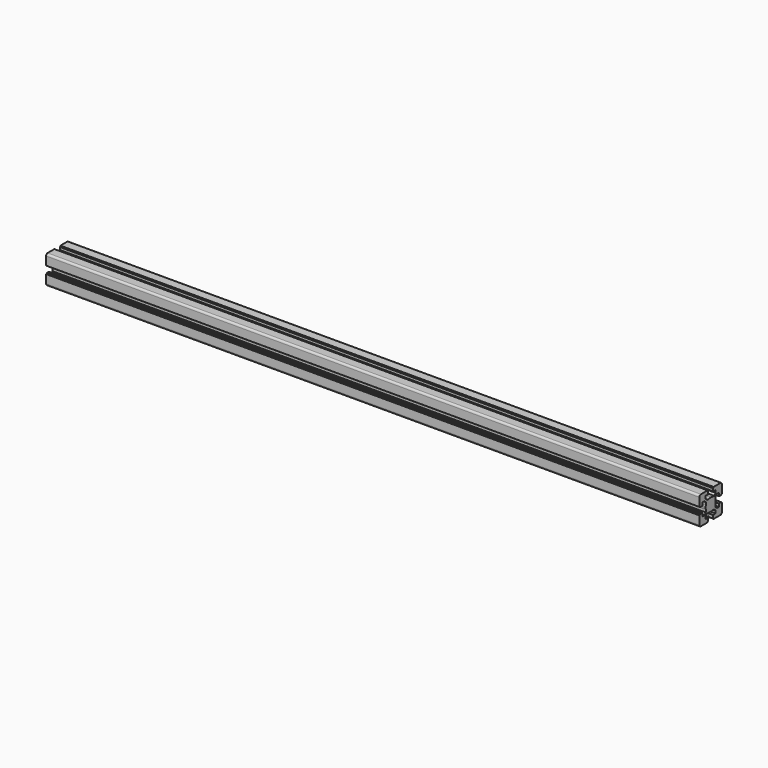
from build123d import *

# Parameters (mm, degrees)
F1_DEPTH = 1041.4


with BuildPart() as f1:
    # F0 (on Right) → F1 (new body)
    with BuildSketch(Plane.YZ):
        with BuildLine():
            Line((-20.088481, -9.788837), (-20.088481, -10.288837))
            Line((-20.088481, -10.288837), (-21.28859, -10.288837))
            ThreePointArc((-21.28859, -10.288837), (-21.500722, -10.376705), (-21.58859, -10.588837))
            Line((-21.58859, -10.588837), (-21.58859, -23.988949))
            ThreePointArc((-21.58859, -23.988949), (-20.70991, -26.11027), (-18.58859, -26.988949))
            Line((-18.58859, -26.988949), (-5.188544, -26.988949))
            ThreePointArc((-5.188544, -26.988949), (-4.976411, -26.901081), (-4.888544, -26.688949))
            Line((-4.888544, -26.688949), (-4.888544, -25.488841))
            Line((-4.888544, -25.488841), (-4.388544, -25.488841))
            ThreePointArc((-4.388544, -25.488841), (-4.176411, -25.400973), (-4.088544, -25.188841))
            Line((-4.088544, -25.188841), (-4.088544, -21.288841))
            ThreePointArc((-4.088544, -21.288841), (-4.176411, -21.076709), (-4.388544, -20.988841))
            Line((-4.388544, -20.988841), (-9.138663, -20.988841))
            Line((-9.138663, -20.988841), (-9.138663, -16.881665))
            Line((-9.138663, -16.881665), (-6.245729, -13.988731))
            Line((-6.245729, -13.988731), (-2.211433, -13.988731))
            ThreePointArc((-2.211433, -13.988731), (-0.669869, -14.363044), (0.91149, -14.48887))
            Line((0.91149, -14.48887), (0.91149, -4.48887))
            Line((0.91149, -4.48887), (-9.08851, -4.48887))
            ThreePointArc((-9.08851, -4.48887), (-8.962684, -6.070229), (-8.588371, -7.611793))
            Line((-8.588371, -7.611793), (-8.588371, -11.646022))
            Line((-8.588371, -11.646022), (-11.481305, -14.538956))
            Line((-11.481305, -14.538956), (-15.588481, -14.538956))
            Line((-15.588481, -14.538956), (-15.588481, -9.788837))
            ThreePointArc((-15.588481, -9.788837), (-15.676349, -9.576705), (-15.888481, -9.488837))
            Line((-15.888481, -9.488837), (-19.788481, -9.488837))
            ThreePointArc((-19.788481, -9.488837), (-20.000613, -9.576705), (-20.088481, -9.788837))
        make_face()
        with BuildLine():
            ThreePointArc((-8.588371, -1.365947), (-8.962684, -2.907511), (-9.08851, -4.48887))
            Line((-9.08851, -4.48887), (0.91149, -4.48887))
            Line((0.91149, -4.48887), (0.91149, 5.51113))
            ThreePointArc((0.91149, 5.51113), (-0.669869, 5.385303), (-2.211433, 5.010991))
            Line((-2.211433, 5.010991), (-6.245729, 5.010991))
            Line((-6.245729, 5.010991), (-9.138663, 7.903925))
            Line((-9.138663, 7.903925), (-9.138663, 12.011101))
            Line((-9.138663, 12.011101), (-4.388544, 12.011101))
            ThreePointArc((-4.388544, 12.011101), (-4.176411, 12.098969), (-4.088544, 12.311101))
            Line((-4.088544, 12.311101), (-4.088544, 16.211101))
            ThreePointArc((-4.088544, 16.211101), (-4.176411, 16.423233), (-4.388544, 16.511101))
            Line((-4.388544, 16.511101), (-4.888544, 16.511101))
            Line((-4.888544, 16.511101), (-4.888544, 17.711209))
            ThreePointArc((-4.888544, 17.711209), (-4.976411, 17.923341), (-5.188544, 18.011209))
            Line((-5.188544, 18.011209), (-18.58859, 18.011209))
            ThreePointArc((-18.58859, 18.011209), (-20.70991, 17.13253), (-21.58859, 15.011209))
            Line((-21.58859, 15.011209), (-21.58859, 1.611097))
            ThreePointArc((-21.58859, 1.611097), (-21.500722, 1.398965), (-21.28859, 1.311097))
            Line((-21.28859, 1.311097), (-20.088481, 1.311097))
            Line((-20.088481, 1.311097), (-20.088481, 0.811097))
            ThreePointArc((-20.088481, 0.811097), (-20.000613, 0.598965), (-19.788481, 0.511097))
            Line((-19.788481, 0.511097), (-15.888481, 0.511097))
            ThreePointArc((-15.888481, 0.511097), (-15.676349, 0.598965), (-15.588481, 0.811097))
            Line((-15.588481, 0.811097), (-15.588481, 5.561216))
            Line((-15.588481, 5.561216), (-11.481305, 5.561216))
            Line((-11.481305, 5.561216), (-8.588371, 2.668282))
            Line((-8.588371, 2.668282), (-8.588371, -1.365947))
        make_face()
        with BuildLine():
            Line((0.91149, 5.51113), (0.91149, -4.48887))
            Line((0.91149, -4.48887), (10.91149, -4.48887))
            ThreePointArc((10.91149, -4.48887), (10.785663, -2.907511), (10.41135, -1.365947))
            Line((10.41135, -1.365947), (10.41135, 2.668282))
            Line((10.41135, 2.668282), (13.304285, 5.561216))
            Line((13.304285, 5.561216), (14.016842, 5.561216))
            Line((14.016842, 5.561216), (17.41146, 5.561216))
            Line((17.41146, 5.561216), (17.41146, 0.811097))
            ThreePointArc((17.41146, 0.811097), (17.499328, 0.598965), (17.71146, 0.511097))
            Line((17.71146, 0.511097), (21.61146, 0.511097))
            ThreePointArc((21.61146, 0.511097), (21.823593, 0.598965), (21.91146, 0.811097))
            Line((21.91146, 0.811097), (21.91146, 1.311097))
            Line((21.91146, 1.311097), (23.111569, 1.311097))
            ThreePointArc((23.111569, 1.311097), (23.323701, 1.398965), (23.411569, 1.611097))
            Line((23.411569, 1.611097), (23.411569, 15.011209))
            ThreePointArc((23.411569, 15.011209), (22.532889, 17.13253), (20.411569, 18.011209))
            Line((20.411569, 18.011209), (7.011523, 18.011209))
            ThreePointArc((7.011523, 18.011209), (6.799391, 17.923341), (6.711523, 17.711209))
            Line((6.711523, 17.711209), (6.711523, 16.511101))
            Line((6.711523, 16.511101), (6.211523, 16.511101))
            ThreePointArc((6.211523, 16.511101), (5.999391, 16.423233), (5.911523, 16.211101))
            Line((5.911523, 16.211101), (5.911523, 12.311101))
            ThreePointArc((5.911523, 12.311101), (5.999391, 12.098969), (6.211523, 12.011101))
            Line((6.211523, 12.011101), (10.961642, 12.011101))
            Line((10.961642, 12.011101), (10.961642, 7.903925))
            Line((10.961642, 7.903925), (8.068708, 5.010991))
            Line((8.068708, 5.010991), (4.034413, 5.010991))
            ThreePointArc((4.034413, 5.010991), (2.492849, 5.385303), (0.91149, 5.51113))
        make_face()
        with BuildLine():
            Line((10.91149, -4.48887), (0.91149, -4.48887))
            Line((0.91149, -4.48887), (0.91149, -14.48887))
            ThreePointArc((0.91149, -14.48887), (2.492849, -14.363044), (4.034413, -13.988731))
            Line((4.034413, -13.988731), (8.068708, -13.988731))
            Line((8.068708, -13.988731), (10.961642, -16.881665))
            Line((10.961642, -16.881665), (10.961642, -20.988841))
            Line((10.961642, -20.988841), (6.211523, -20.988841))
            ThreePointArc((6.211523, -20.988841), (5.999391, -21.076709), (5.911523, -21.288841))
            Line((5.911523, -21.288841), (5.911523, -25.188841))
            ThreePointArc((5.911523, -25.188841), (5.999391, -25.400973), (6.211523, -25.488841))
            Line((6.211523, -25.488841), (6.711523, -25.488841))
            Line((6.711523, -25.488841), (6.711523, -26.688949))
            ThreePointArc((6.711523, -26.688949), (6.799391, -26.901081), (7.011523, -26.988949))
            Line((7.011523, -26.988949), (20.411569, -26.988949))
            ThreePointArc((20.411569, -26.988949), (22.532889, -26.11027), (23.411569, -23.988949))
            Line((23.411569, -23.988949), (23.411569, -10.588837))
            ThreePointArc((23.411569, -10.588837), (23.323701, -10.376705), (23.111569, -10.288837))
            Line((23.111569, -10.288837), (21.91146, -10.288837))
            Line((21.91146, -10.288837), (21.91146, -9.788837))
            ThreePointArc((21.91146, -9.788837), (21.823593, -9.576705), (21.61146, -9.488837))
            Line((21.61146, -9.488837), (17.71146, -9.488837))
            ThreePointArc((17.71146, -9.488837), (17.499328, -9.576705), (17.41146, -9.788837))
            Line((17.41146, -9.788837), (17.41146, -14.538956))
            Line((17.41146, -14.538956), (13.304285, -14.538956))
            Line((13.304285, -14.538956), (10.41135, -11.646022))
            Line((10.41135, -11.646022), (10.41135, -7.611793))
            ThreePointArc((10.41135, -7.611793), (10.785663, -6.070229), (10.91149, -4.48887))
        make_face()
    extrude(amount=F1_DEPTH)


solid = f1.part
